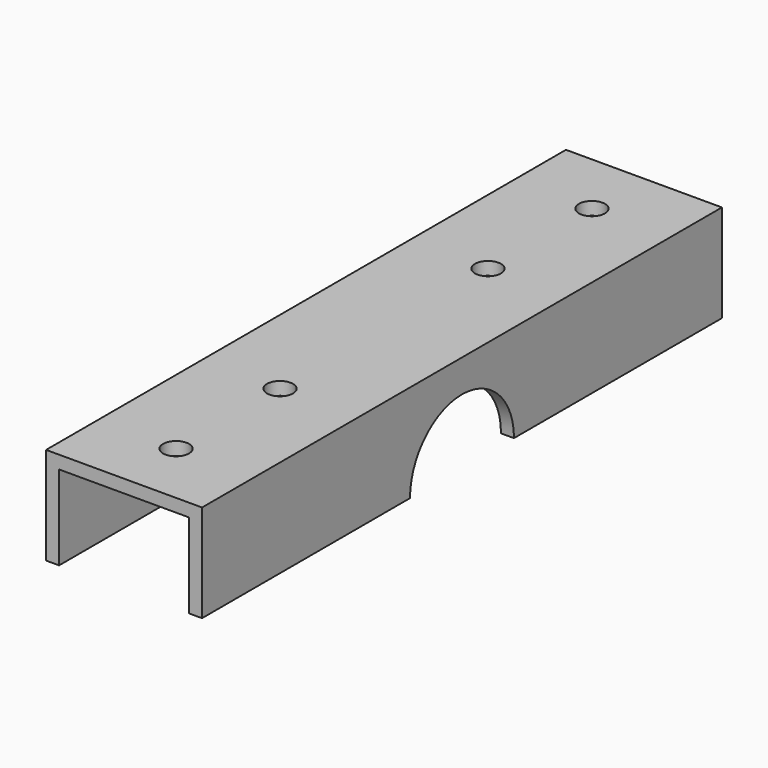
from build123d import *

# Parameters (mm, degrees)
F1_DEPTH = 100
F2_R     = 10
F3_DEPTH = 25
F4_R     = 2
F5_DEPTH = 25


with BuildPart() as f1:
    # F0 (on Front) → F1 (new body)
    with BuildSketch(Plane.XZ):
        Polygon((0, -15), (0, 0), (-24, 0), (-24, -15), (-22, -15), (-22, -2), (-2, -2), (-2, -15), align=None)
    extrude(amount=F1_DEPTH)

    # F2 (on face) → F3 (cut)
    with BuildSketch(Plane.YZ):
        with Locations((-50, -15)):
            Circle(F2_R)
    extrude(amount=-F3_DEPTH, mode=Mode.SUBTRACT)

    # F4 (on face) → F5 (cut)
    with BuildSketch(Plane.XY):
        with Locations((-12, -90)):
            Circle(F4_R)
        with Locations((-12, -70)):
            Circle(F4_R)
        with Locations((-12, -30)):
            Circle(F4_R)
        with Locations((-12, -10)):
            Circle(F4_R)
    extrude(amount=-F5_DEPTH, mode=Mode.SUBTRACT)


solid = f1.part
